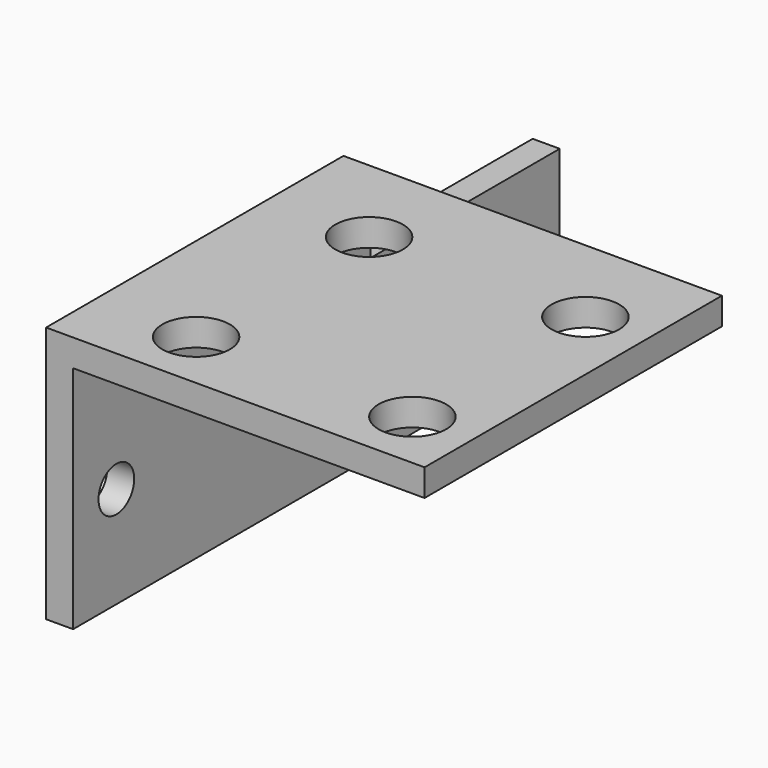
from build123d import *

# Parameters (mm, degrees)
F0_W     = 28
F0_H     = 45
F1_DEPTH = 19
F2_D     = 5
F3_W     = 26
F3_H     = 17
F4_DEPTH = 45.001
F6_D     = 3.3
F7_W     = 17.5
F7_H     = 6
F8_DEPTH = 28.001


with BuildPart() as f1:
    # F0 (on Top) → F1 (new body)
    with BuildSketch(Plane.XY):
        with Locations((-1.5, 0)):
            Rectangle(F0_W, F0_H)
    extrude(amount=F1_DEPTH)

    # F2 (through all)
    with Locations(Plane(origin=(0, 0, 0), x_dir=(1, 0, 0), z_dir=(0, 0, -1))):
        with Locations((8, 2), (-8, 2), (-8, 18), (8, 18)):
            Hole(F2_D / 2)

    # F3 (on face) → F4 (cut, through all)
    with BuildSketch(Plane.XZ.offset(22.5)):
        with Locations((-0.5, 8.5)):
            Rectangle(F3_W, F3_H)
    extrude(amount=-F4_DEPTH, mode=Mode.SUBTRACT)

    # F6 (through all)
    with Locations(Plane(origin=(-15.5, 0, 0), x_dir=(0, -1, 0), z_dir=(-1, 0, 0))):
        with Locations((-18.5, 7.5), (18.5, 7.5)):
            Hole(F6_D / 2)

    # F7 (on face) → F8 (cut, through all)
    with BuildSketch(Plane(origin=(-15.5, 0, 0), x_dir=(0, -1, 0), z_dir=(-1, 0, 0))):
        with Locations((-13.75, 16)):
            Rectangle(F7_W, F7_H)
    extrude(amount=-F8_DEPTH, mode=Mode.SUBTRACT)


solid = f1.part
